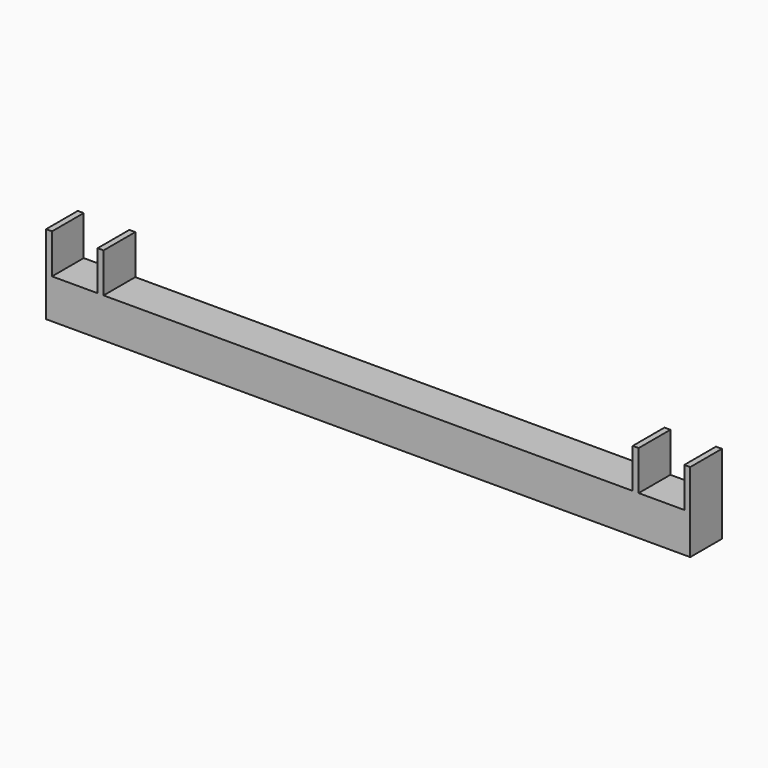
from build123d import *

# Parameters (mm, degrees)
F0_W     = 325
F0_H     = 20
F1_DEPTH = 20
F2_W     = 3
F2_H     = 20
F3_DEPTH = 20


with BuildPart() as f1:
    # F0 (on Front) → F1 (new body)
    with BuildSketch(Plane.XZ):
        Rectangle(F0_W, F0_H)
    extrude(amount=F1_DEPTH)

    # F2 (on face) → F3 (join)
    with BuildSketch(Plane.XY.offset(10)):
        with Locations((161, -10)):
            Rectangle(F2_W, F2_H)
        with Locations((135, -10)):
            Rectangle(F2_W, F2_H)
        with Locations((-161, -10)):
            Rectangle(F2_W, F2_H)
        with Locations((-135, -10)):
            Rectangle(F2_W, F2_H)
    extrude(amount=F3_DEPTH)


solid = f1.part
